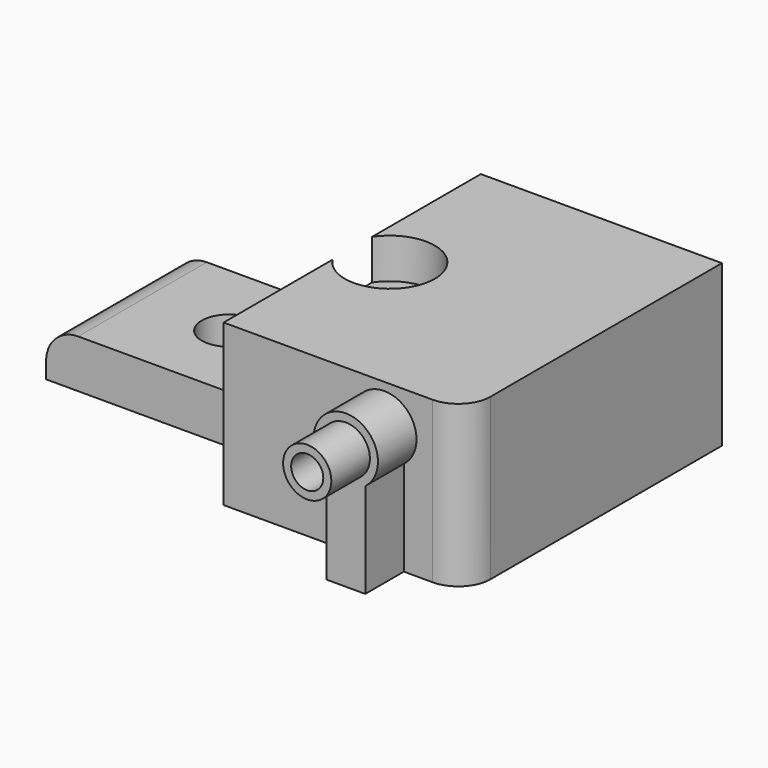
from build123d import *

# Parameters (mm, degrees)
SKETCH_R        = 1.7
PAD_DEPTH       = 10
SKETCH002_W     = 15
SKETCH002_H     = 10
POCKET_DEPTH    = 7
PAD001_DEPTH    = 3
SKETCH009_R     = 2.8
POCKET003_DEPTH = 2.5
SKETCH010_R     = 1.5
PAD002_DEPTH    = 3
SKETCH011_R     = 1
POCKET004_DEPTH = 24
SKETCH012_R     = 1.8
POCKET005_DEPTH = 11
SKETCH013_R     = 2
POCKET006_DEPTH = 6
FILLET_R        = 2
FILLET001_R     = 2


with BuildPart() as part:
    # Sketch → Pad (new body)
    with BuildSketch(Plane.XY):
        Polygon((-10, 10), (5, 10), (5, 4.942513), (5, -5.057487), (5, -10), (-10, -10), (-10, -5.057487), (-25, -5.057487), (-25, 4.942513), (-10, 4.942513), align=None)
        with Locations((-17.661669, 0)):
            Circle(SKETCH_R, mode=Mode.SUBTRACT)
        with Locations((-7.661669, 0)):
            Circle(SKETCH_R, mode=Mode.SUBTRACT)
    extrude(amount=PAD_DEPTH)

    # Sketch002 (on Face14 of Pad) → Pocket (cut)
    with BuildSketch(Plane.XY.offset(10)):
        with Locations((-17.5, -0.057487)):
            Rectangle(SKETCH002_W, SKETCH002_H)
    extrude(amount=-POCKET_DEPTH, mode=Mode.SUBTRACT)

    # Sketch003 (on Face13 of Pocket) → Pad001 (join)
    with BuildSketch(Plane.XZ.offset(10)):
        with BuildLine():
            ThreePointArc((1.21175, 5.90888), (0, 9.5), (-1.21175, 5.90888))
            Line((-1.21175, 5.90888), (-1.21175, 0))
            Line((-1.21175, 0), (1.21175, 0))
            Line((1.21175, 0), (1.21175, 5.90888))
        make_face()
    extrude(amount=PAD001_DEPTH)

    # Sketch009 (on Face14 of Pad) → Pocket003 (cut)
    with BuildSketch(Plane.XY.offset(10)):
        with Locations((-7.661669, 0)):
            Circle(SKETCH009_R)
    extrude(amount=-POCKET003_DEPTH, mode=Mode.SUBTRACT)

    # Sketch010 (on Face24 of Pocket003) → Pad002 (join)
    with BuildSketch(Plane.XZ.offset(13)):
        with Locations((0, 7.5)):
            Circle(SKETCH010_R)
    extrude(amount=PAD002_DEPTH)

    # Sketch011 (on Face26 of Pad002) → Pocket004 (cut)
    with BuildSketch(Plane.XZ.offset(16)):
        with Locations((0, 7.5)):
            Circle(SKETCH011_R)
    extrude(amount=-POCKET004_DEPTH, mode=Mode.SUBTRACT)

    # Sketch012 (on Face1 of Pocket004) → Pocket005 (cut)
    with BuildSketch(Plane(origin=(-10, 0, 0), x_dir=(0, -1, 0), z_dir=(-1, 0, 0))):
        with Locations((-7.264964, 7)):
            Circle(SKETCH012_R)
    extrude(amount=-POCKET005_DEPTH, mode=Mode.SUBTRACT)

    # Sketch013 (on Face1 of Pocket005) → Pocket006 (cut)
    with BuildSketch(Plane(origin=(-10, 0, 0), x_dir=(0, -1, 0), z_dir=(-1, 0, 0))):
        with Locations((-7.264964, 7)):
            Circle(SKETCH013_R)
    extrude(amount=-POCKET006_DEPTH, mode=Mode.SUBTRACT)

    # Fillet
    fillet_edges = [part.edges().sort_by_distance(p)[0] for p in [
        (5, -10, 5),
    ]]
    fillet(fillet_edges, radius=FILLET_R)

    # Fillet001
    fillet001_edges = [part.edges().sort_by_distance(p)[0] for p in [
        (-25, -0.057487, 3),
    ]]
    fillet(fillet001_edges, radius=FILLET001_R)


solid = part.part
